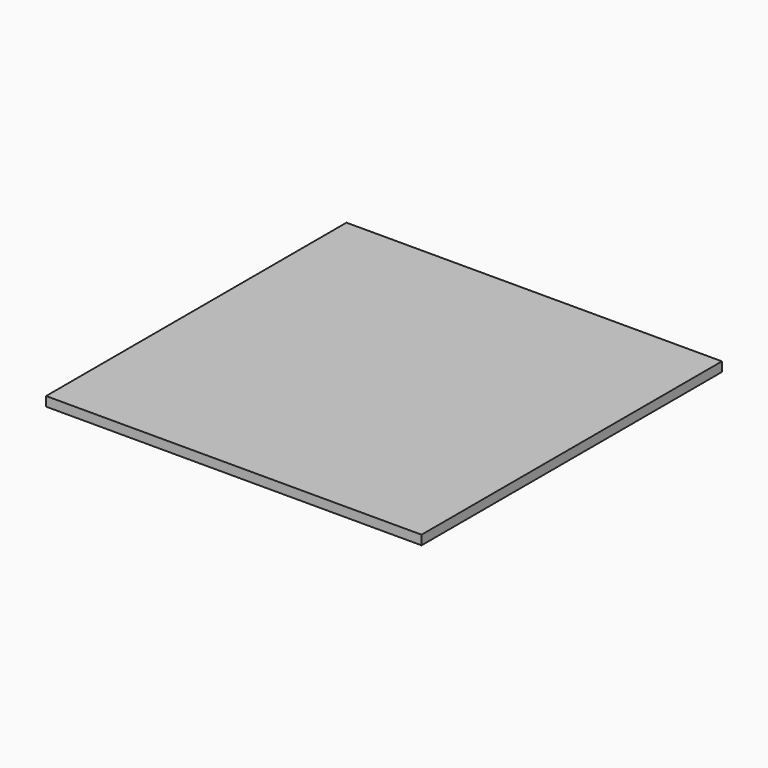
from build123d import *

# Parameters (mm, degrees)
BOX006_W     = 185
BOX006_H     = 185
BOX006_DEPTH = 8
BOX005_W     = 200
BOX005_H     = 200
BOX005_DEPTH = 5


with BuildPart() as cube006:
    # Box006 → Box006 (new body)
    with BuildSketch(Plane(origin=(7.5, 7.5, 93), x_dir=(1, 0, 0), z_dir=(0, 0, 1))):
        with Locations((92.5, 92.5)):
            Rectangle(BOX006_W, BOX006_H)
    extrude(amount=BOX006_DEPTH)


with BuildPart() as lid:
    # Box005 → Box005 (new body)
    with BuildSketch(Plane.XY.offset(96)):
        with Locations((100, 100)):
            Rectangle(BOX005_W, BOX005_H)
    extrude(amount=BOX005_DEPTH)

    # Fusion002: union Cube006
    add(cube006.part)


solid = lid.part
